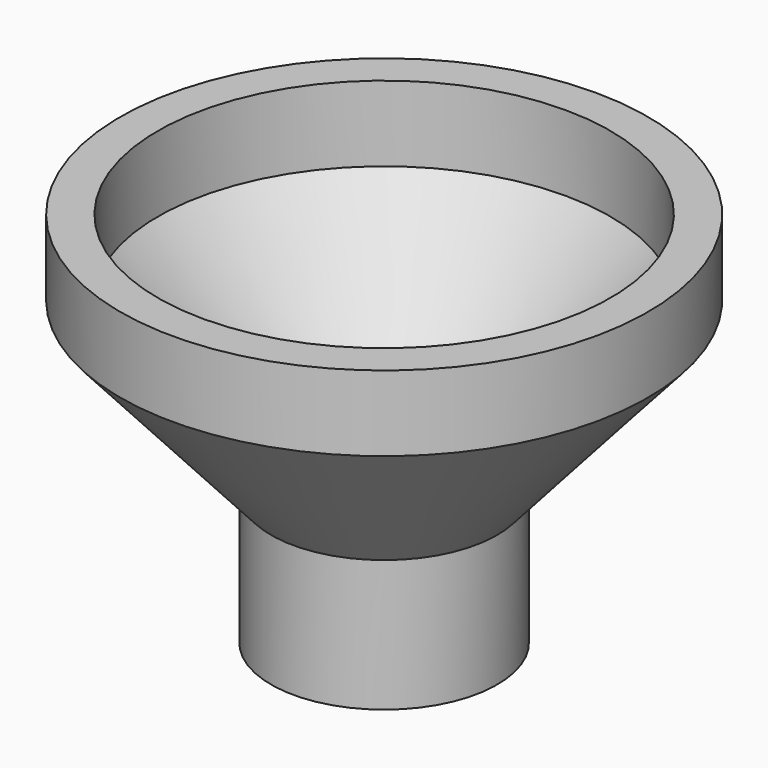
from build123d import *

# Parameters (mm, degrees)
F0_W     = 3.175
F0_H     = 6.35
F0_H_2   = 11.083638
F2_R     = 9.040902
F3_DEPTH = 9.525
F4_R     = 9.539088
F5_DEPTH = 25.4


with BuildPart() as f1:
    # F0 (on Right) → F1 (revolve)
    with BuildSketch(Plane.YZ):
        with Locations((20.6375, 3.175)):
            Rectangle(F0_W, F0_H)
        Polygon((9.525, -14.316362), (22.225, 0), (19.05, 0), (6.35, -14.316362), align=None)
        with Locations((7.9375, -19.858181)):
            Rectangle(F0_W, F0_H_2)
    revolve(axis=Axis((0, 0, -21.81005), (0, 0, 1)))


with BuildPart() as f3:
    # F2 (on Top) → F3 (new body)
    with BuildSketch(Plane.XY):
        Circle(F2_R)
    extrude(amount=F3_DEPTH)

    # F4 (on Top) → F5 (join)
    with BuildSketch(Plane.XY):
        Circle(F4_R)
    extrude(amount=F5_DEPTH)


solid = f1.part
